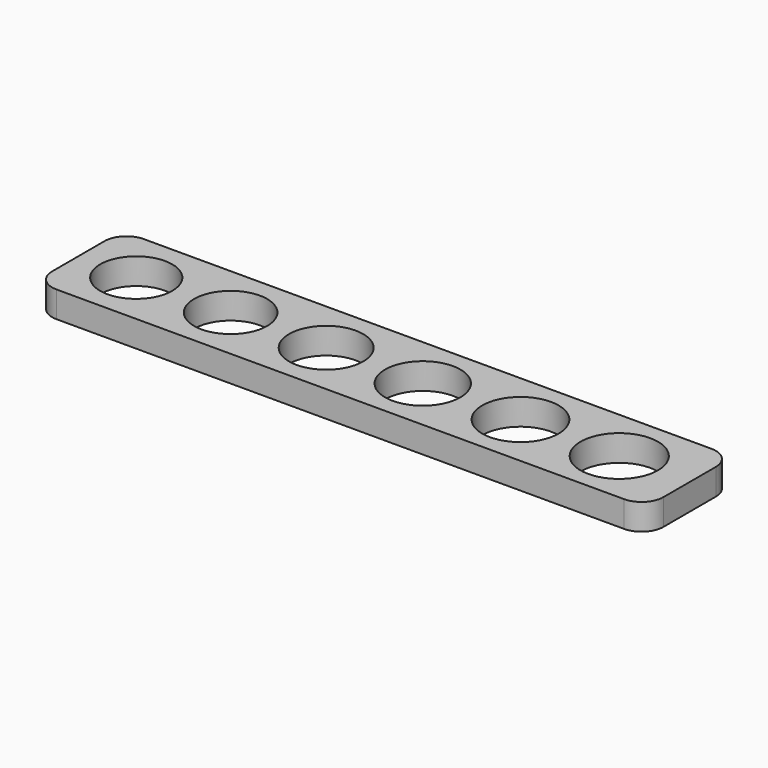
from build123d import *

# Parameters (mm, degrees)
F1_DEPTH = 6
F2_R     = 8.25
F2_R_2   = 8.375
F2_R_3   = 8.5
F2_R_4   = 8.625
F2_R_5   = 8.75
F2_R_6   = 8.875
F3_DEPTH = 6.001


with BuildPart() as f1:
    # F0 (on Top) → F1 (new body)
    with BuildSketch(Plane.XY):
        with BuildLine():
            Line((65, 12.5), (-65, 12.5))
            ThreePointArc((-65, 12.5), (-68.535534, 11.035534), (-70, 7.5))
            Line((-70, 7.5), (-70, -7.5))
            ThreePointArc((-70, -7.5), (-68.535534, -11.035534), (-65, -12.5))
            Line((-65, -12.5), (65, -12.5))
            ThreePointArc((65, -12.5), (68.535534, -11.035534), (70, -7.5))
            Line((70, -7.5), (70, 7.5))
            ThreePointArc((70, 7.5), (68.535534, 11.035534), (65, 12.5))
        make_face()
    extrude(amount=F1_DEPTH)

    # F2 (on face) → F3 (cut, through all)
    with BuildSketch(Plane.XY.offset(6)):
        with Locations((-56.75, 0)):
            Circle(F2_R)
        with Locations((-35.125, 0)):
            Circle(F2_R_2)
        with Locations((-13.25, 0)):
            Circle(F2_R_3)
        with Locations((8.875, 0)):
            Circle(F2_R_4)
        with Locations((31.25, 0)):
            Circle(F2_R_5)
        with Locations((53.875, 0)):
            Circle(F2_R_6)
    extrude(amount=-F3_DEPTH, mode=Mode.SUBTRACT)


solid = f1.part
